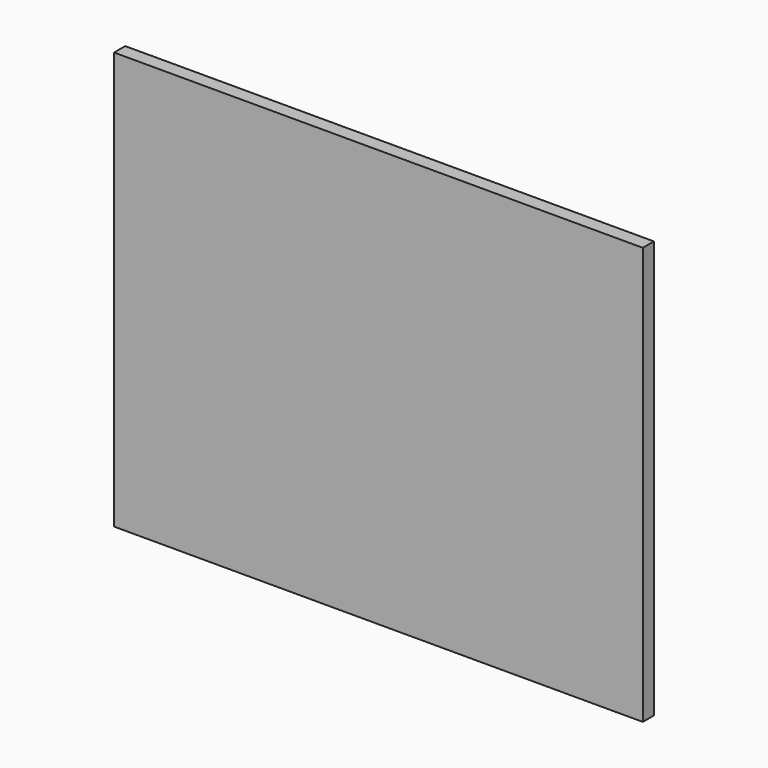
from build123d import *

# Parameters (mm, degrees)
SKETCH_W  = 760
SKETCH_H  = 600
PAD_DEPTH = 20


with BuildPart() as part:
    # Sketch → Pad (new body)
    with BuildSketch(Plane.XZ):
        Rectangle(SKETCH_W, SKETCH_H)
    extrude(amount=PAD_DEPTH)


solid = part.part
